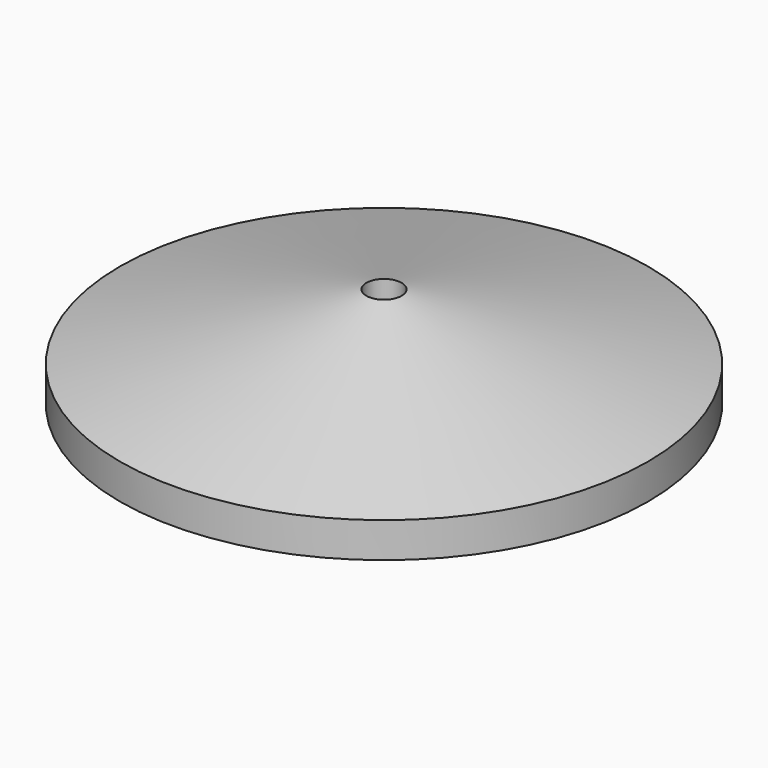
from build123d import *

# Parameters (mm, degrees)
F3_D = 4
F4_T = -2


with BuildPart() as f1:
    # F0 (on Front) → F1 (revolve)
    with BuildSketch(Plane.XZ):
        Polygon((0, 10), (0, 0), (30, 0), (30, 2), align=None)
    revolve(axis=Axis((0, 0, 5), (0, 0, 1)))

    # F3 (through all)
    with Locations(Plane(origin=(0, 0, 0), x_dir=(1, 0, 0), z_dir=(0, 0, -1))):
        with Locations((0, 0)):
            Hole(F3_D / 2)

    # F4
    f4_openings = [f1.faces().sort_by_distance(p)[0] for p in [
        (-29.151472, 0, 0),
    ]]
    offset(amount=F4_T, openings=f4_openings)

    # F5: F1 across plane


with BuildPart() as f1_1:
    add(f1.part)
    add(f1.part.mirror(Plane.XY))


solid = f1_1.part
